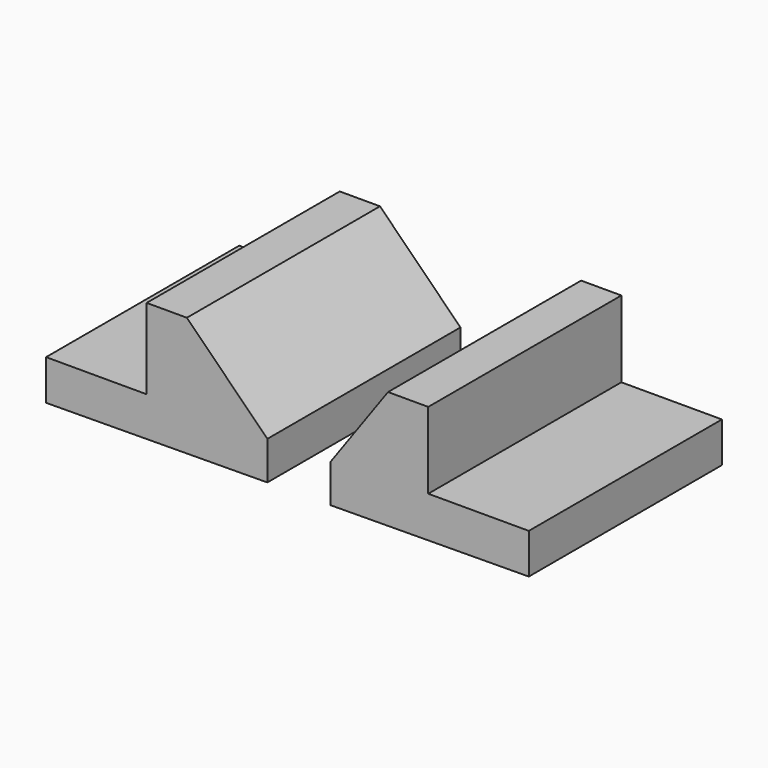
from build123d import *

# Parameters (mm, degrees)
F1_DEPTH = 76.2


with BuildPart() as f1:
    # F0 (on Front) → F1 (new body)
    with BuildSketch(Plane.XZ):
        Polygon((19.867729, -12.7), (19.867729, -24.652326), (82.544708, -24.13), (82.544708, -11.43), (50.794708, -11.43), (50.794708, 12.7), (38.094708, 12.7), align=None)
        Polygon((-69.85, -12.7), (-69.85, -25.4), (0, -24.817896), (0, -12.7), (-25.4, 12.7), (-38.1, 12.7), (-38.1, -12.7), align=None)
    extrude(amount=F1_DEPTH)


solid = f1.part
